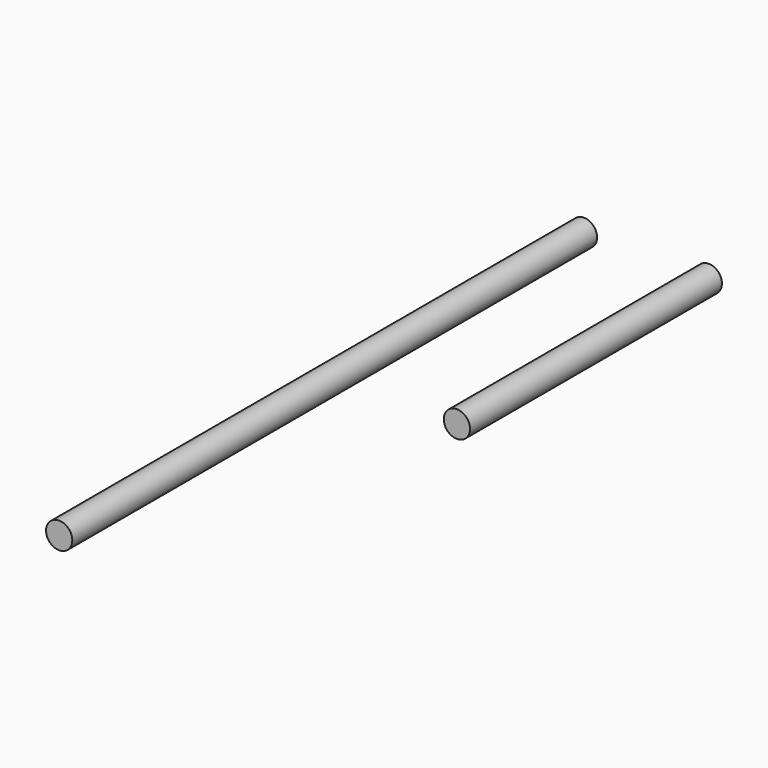
from build123d import *

# Parameters (mm, degrees)
F0_R     = 5
F1_DEPTH = 250
F2_R     = 5
F3_DEPTH = 120


with BuildPart() as f1:
    # F0 (on Front) → F1 (new body)
    with BuildSketch(Plane.XZ):
        with Locations((-28.200938, 0)):
            Circle(F0_R)
    extrude(amount=F1_DEPTH)


with BuildPart() as f3:
    # F2 (on Front) → F3 (new body)
    with BuildSketch(Plane.XZ):
        with Locations((19.378378, 0)):
            Circle(F2_R)
    extrude(amount=F3_DEPTH)


solid = Compound([f1.part, f3.part])
